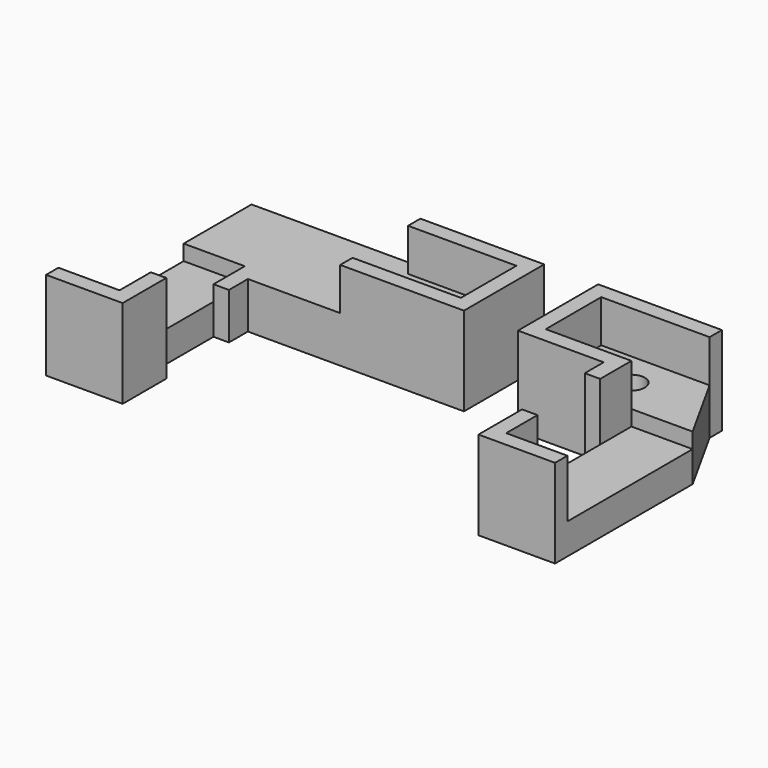
from build123d import *

# Parameters (mm, degrees)
SKETCH_R        = 1.75
PAD_DEPTH       = 6
PAD001_DEPTH    = 11.5
SKETCH002_W     = 7.93
SKETCH002_H     = 20.3
POCKET_DEPTH    = 2
SKETCH003_R     = 3
POCKET001_DEPTH = 4
SKETCH004_R     = 1.75
PAD002_DEPTH    = 6
PAD003_DEPTH    = 11.5
SKETCH008_W     = 7.93
SKETCH008_H     = 20.3
POCKET002_DEPTH = 2
SKETCH009_W     = 21.9
SKETCH009_H     = 20
POCKET003_DEPTH = 5.5
SKETCH010_R     = 3
POCKET004_DEPTH = 4


with BuildPart() as obj1:
    # Sketch → Pad (new body)
    with BuildSketch(Plane.XY):
        Polygon((14.05, 9), (0, 9), (0, 0), (11.12, 0), (11.12, -20.3), (19.05, -20.3), (19.05, 0), align=None)
        with Locations((7.5, 4.5)):
            Circle(SKETCH_R, mode=Mode.SUBTRACT)
    extrude(amount=-PAD_DEPTH)

    # Sketch001 (on Face10 of Pad) → Pad001 (join)
    with BuildSketch(Plane(origin=(0, 0, -6), x_dir=(1, 0, 0), z_dir=(0, 0, -1))):
        Polygon((19.05, 20.3), (19.05, 22.3), (9.12, 22.3), (9.12, 15.23), (11.12, 15.23), (11.12, 20.3), align=None)
        Polygon((9.12, 2), (-2, 2), (-2, -11), (14.05, -11), (14.05, -9), (0, -9), (0, 0), (11.12, 0), (11.12, 5.07), (9.12, 5.07), align=None)
    extrude(amount=-PAD001_DEPTH)

    # Sketch002 (on Face2 of Pad001) → Pocket (cut)
    with BuildSketch(Plane.XY):
        with Locations((15.085, -10.15)):
            Rectangle(SKETCH002_W, SKETCH002_H)
    extrude(amount=-POCKET_DEPTH, mode=Mode.SUBTRACT)

    # Sketch003 (on Face9 of Pocket) → Pocket001 (cut)
    with BuildSketch(Plane(origin=(0, 0, -6), x_dir=(1, 0, 0), z_dir=(0, 0, -1))):
        with Locations((7.5, -4.5)):
            Circle(SKETCH003_R)
    extrude(amount=-POCKET001_DEPTH, mode=Mode.SUBTRACT)


with BuildPart() as basemagnetopot_opposite:
    # Sketch004 → Pad002 (new body)
    with BuildSketch(Plane.XY):
        Polygon((-35.95, -20.3), (-35.95, 9), (0, 9), (0, 0), (-28.02, 0), (-28.02, -20.3), align=None)
        with Locations((-7.5, 4.5)):
            Circle(SKETCH004_R, mode=Mode.SUBTRACT)
    extrude(amount=-PAD002_DEPTH)

    # Sketch006 (on Face9 of Pad002) → Pad003 (join)
    with BuildSketch(Plane(origin=(0, 0, -6), x_dir=(1, 0, 0), z_dir=(0, 0, -1))):
        Polygon((2, 2), (2, -11), (-35.95, -11), (-35.95, -9), (0, -9), (0, 0), (-28.02, 0), (-28.02, 5.07), (-26.02, 5.07), (-26.02, 2), align=None)
        Polygon((-35.95, 22.3), (-26.02, 22.3), (-26.02, 15.23), (-28.02, 15.23), (-28.02, 20.3), (-35.95, 20.3), align=None)
    extrude(amount=-PAD003_DEPTH)

    # Sketch008 (on Face4 of Pad003) → Pocket002 (cut)
    with BuildSketch(Plane.XY):
        with Locations((-31.985, -10.15)):
            Rectangle(SKETCH008_W, SKETCH008_H)
    extrude(amount=-POCKET002_DEPTH, mode=Mode.SUBTRACT)

    # Sketch009 (on Face18 of Pocket002) → Pocket003 (cut)
    with BuildSketch(Plane.XY.offset(5.5)):
        with Locations((-25, 4.5)):
            Rectangle(SKETCH009_W, SKETCH009_H)
    extrude(amount=-POCKET003_DEPTH, mode=Mode.SUBTRACT)

    # Sketch010 (on Face6 of Pocket003) → Pocket004 (cut)
    with BuildSketch(Plane(origin=(0, 0, -6), x_dir=(1, 0, 0), z_dir=(0, 0, -1))):
        with Locations((-7.5, -4.5)):
            Circle(SKETCH010_R)
    extrude(amount=-POCKET004_DEPTH, mode=Mode.SUBTRACT)


with BuildPart() as basemagnetopot_opposite_1:
    # Body001 placement: moved
    add(basemagnetopot_opposite.part.moved(Location((-11, 0, 0))))


solid = Compound([obj1.part, basemagnetopot_opposite_1.part])
